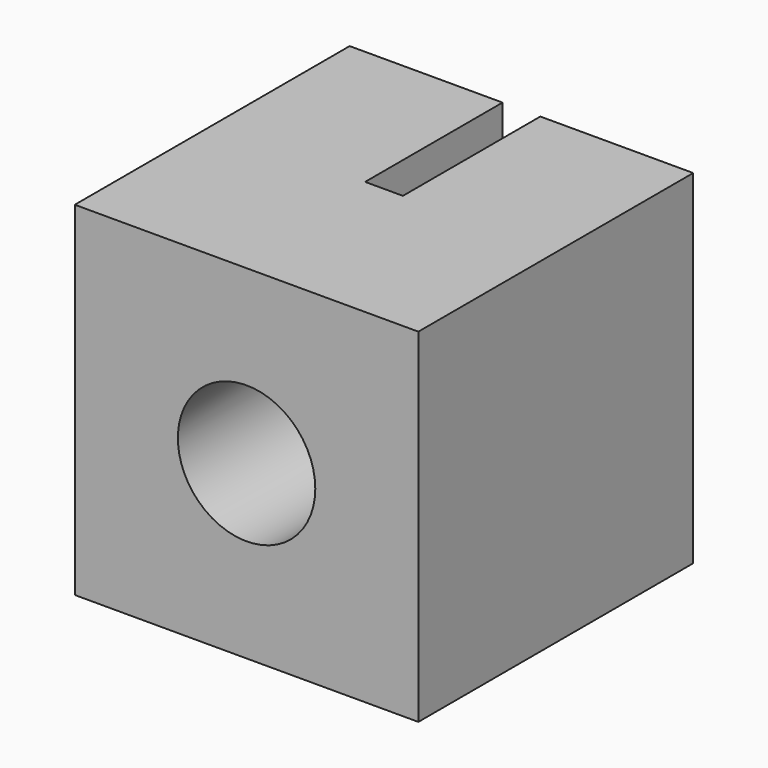
from build123d import *

# Parameters (mm, degrees)
F1_DEPTH = 10
F2_R     = 2
F3_DEPTH = 5


with BuildPart() as f1:
    # F0 (on Top) → F1 (new body)
    with BuildSketch(Plane.XY):
        Polygon((-5, -5), (5, -5), (5, 5), (0.55, 5), (0.55, 0), (-0.55, 0), (-0.55, 5), (-5, 5), align=None)
    extrude(amount=F1_DEPTH)

    # F2 (on face) → F3 (cut)
    with BuildSketch(Plane.XZ.offset(5)):
        with Locations((0, 5)):
            Circle(F2_R)
    extrude(amount=-F3_DEPTH, mode=Mode.SUBTRACT)


solid = f1.part
